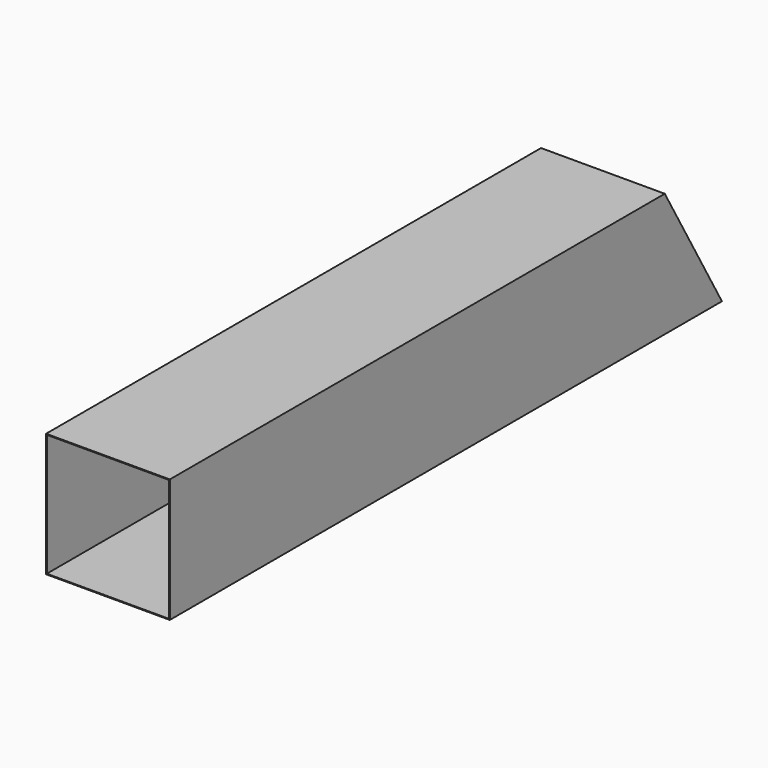
from build123d import *

# Parameters (mm, degrees)
F1_DEPTH = 25.4
F2_W     = 50.1904
F2_H     = 50.1904
F3_DEPTH = 283.330394


with BuildPart() as f1:
    # F0 (on Right) → F1 (new body, symmetric)
    with BuildSketch(Plane.YZ):
        Polygon((81.379221, 60.17469), (-172.620779, 60.17469), (-172.620779, 9.37469), (110.708614, 9.37469), align=None)
    extrude(amount=F1_DEPTH, both=True)

    # F2 (on face) → F3 (cut, through all)
    with BuildSketch(Plane.XZ.offset(172.620779)):
        with Locations((0, 34.77469)):
            Rectangle(F2_W, F2_H)
    extrude(amount=-F3_DEPTH, mode=Mode.SUBTRACT)


solid = f1.part
